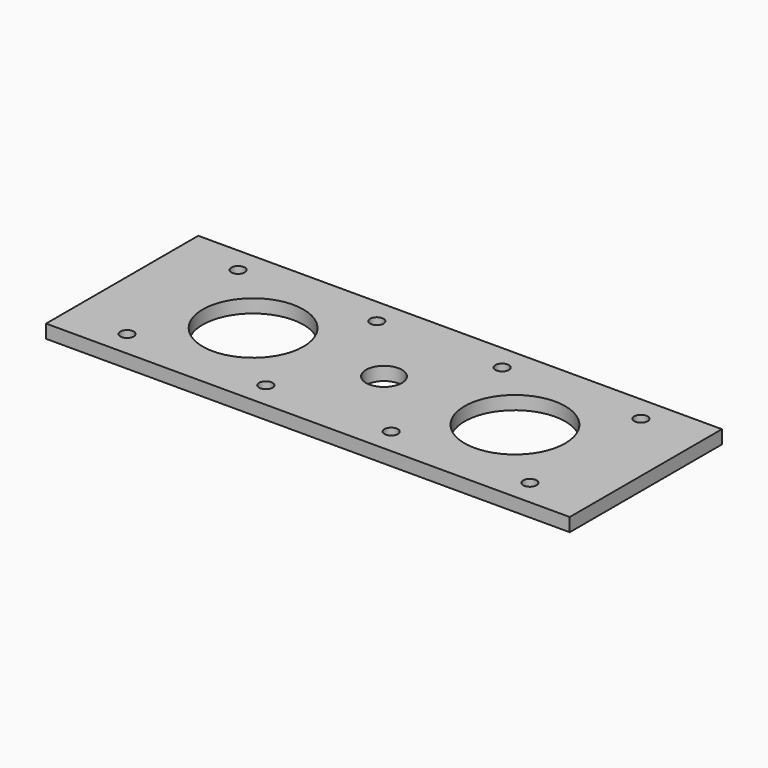
from build123d import *

# Parameters (mm, degrees)
SKETCH_W   = 117
SKETCH_H   = 42.5
SKETCH_R   = 11.25
SKETCH_R_2 = 4
SKETCH_R_3 = 1.5
PAD_DEPTH  = 3


with BuildPart() as part:
    # Sketch → Pad (new body)
    with BuildSketch(Plane.XY):
        Rectangle(SKETCH_W, SKETCH_H)
        with Locations((-29.25, 0)):
            Circle(SKETCH_R, mode=Mode.SUBTRACT)
        with Locations((29.25, 0)):
            Circle(SKETCH_R, mode=Mode.SUBTRACT)
        Circle(SKETCH_R_2, mode=Mode.SUBTRACT)
        with Locations((-45, 15.5)):
            Circle(SKETCH_R_3, mode=Mode.SUBTRACT)
        with Locations((-14, 15.5)):
            Circle(SKETCH_R_3, mode=Mode.SUBTRACT)
        with Locations((-14, -15.5)):
            Circle(SKETCH_R_3, mode=Mode.SUBTRACT)
        with Locations((-45, -15.5)):
            Circle(SKETCH_R_3, mode=Mode.SUBTRACT)
        with Locations((14, 15.5)):
            Circle(SKETCH_R_3, mode=Mode.SUBTRACT)
        with Locations((45, 15.5)):
            Circle(SKETCH_R_3, mode=Mode.SUBTRACT)
        with Locations((45, -15.5)):
            Circle(SKETCH_R_3, mode=Mode.SUBTRACT)
        with Locations((14, -15.5)):
            Circle(SKETCH_R_3, mode=Mode.SUBTRACT)
    extrude(amount=PAD_DEPTH)


solid = part.part
